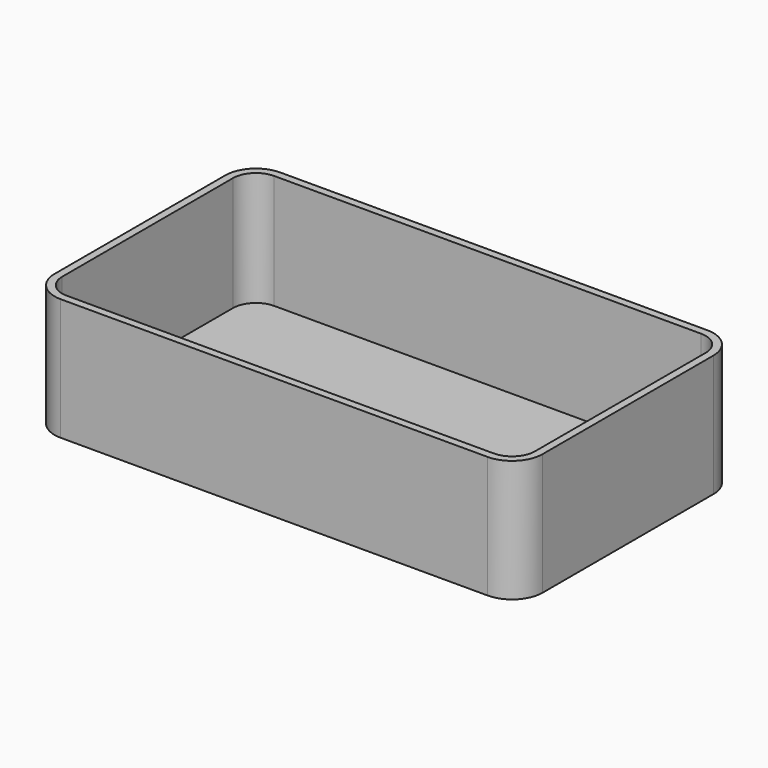
from build123d import *

# Parameters (mm, degrees)
F0_W     = 160
F0_H     = 90
F1_DEPTH = 40
F2_R     = 10
F3_T     = -2.5


with BuildPart() as f1:
    # F0 (on Top) → F1 (new body)
    with BuildSketch(Plane.XY):
        with Locations((-80, -45)):
            Rectangle(F0_W, F0_H)
    extrude(amount=F1_DEPTH)

    # F2
    f2_edges = [f1.edges().sort_by_distance(p)[0] for p in [
        (-160, -90, 20),
        (0, 0, 20),
        (0, -90, 20),
        (-160, 0, 20),
    ]]
    fillet(f2_edges, radius=F2_R)

    # F3
    f3_openings = [f1.faces().sort_by_distance(p)[0] for p in [
        (-80, -45, 40),
    ]]
    offset(amount=F3_T, openings=f3_openings)


solid = f1.part
